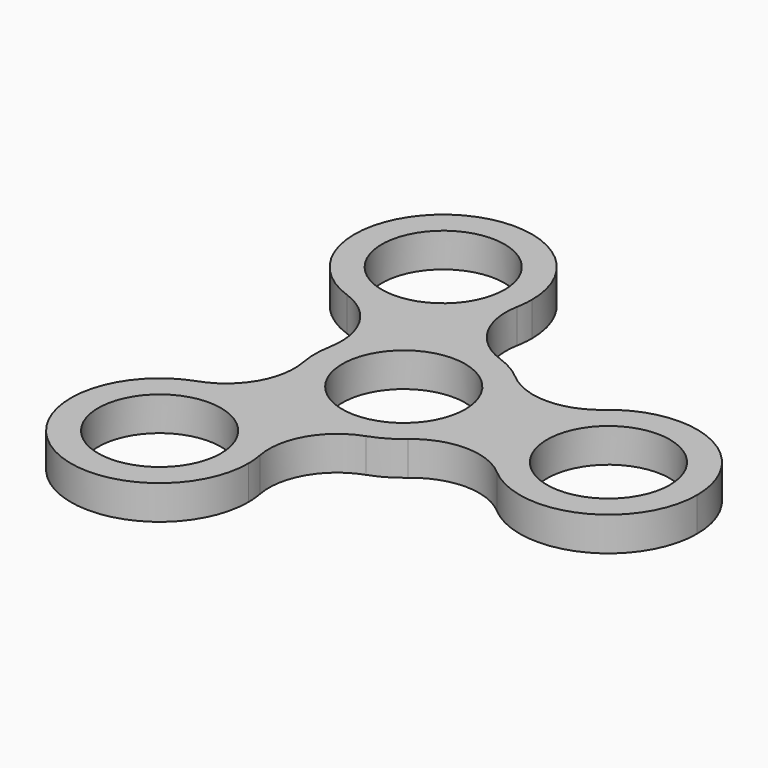
from build123d import *

# Parameters (mm, degrees)
F0_R     = 9
F1_DEPTH = 5


with BuildPart() as f1:
    # F0 (on Top) → F1 (new body)
    with BuildSketch(Plane.XY):
        with BuildLine():
            ThreePointArc((-19.295465, 13.710922), (-8.5, 14.722432), (-2.226274, 23.565824))
            ThreePointArc((-2.226274, 23.565824), (-2.056692, 24.768004), (-2, 25.980762))
            ThreePointArc((-2, 25.980762), (-22.521933, 36.583617), (-19.295465, 13.710922))
        make_face()
        with Locations((-15, 25.980762)):
            Circle(F0_R, mode=Mode.SUBTRACT)
        with BuildLine():
            ThreePointArc((8.478261, -9.854902), (11.815612, -5.421375), (13, 0))
            ThreePointArc((13, 0), (11.815612, 5.421375), (8.478261, 9.854902))
            ThreePointArc((8.478261, 9.854902), (6.5, 11.25833), (4.295465, 12.26984))
            ThreePointArc((4.295465, 12.26984), (-6.5, 11.25833), (-12.773726, 2.414938))
            ThreePointArc((-12.773726, 2.414938), (-13, 0), (-12.773726, -2.414938))
            ThreePointArc((-12.773726, -2.414938), (-6.5, -11.25833), (4.295465, -12.26984))
            ThreePointArc((4.295465, -12.26984), (6.5, -11.25833), (8.478261, -9.854902))
        make_face()
        Circle(F0_R, mode=Mode.SUBTRACT)
        with BuildLine():
            ThreePointArc((-12.773726, 2.414938), (-6.5, 11.25833), (4.295465, 12.26984))
            ThreePointArc((4.295465, 12.26984), (-1.060585, 16.708179), (-2.226274, 23.565824))
            ThreePointArc((-2.226274, 23.565824), (-8.5, 14.722432), (-19.295465, 13.710922))
            ThreePointArc((-19.295465, 13.710922), (-13.939415, 9.272583), (-12.773726, 2.414938))
        make_face()
        with BuildLine():
            ThreePointArc((8.478261, 9.854902), (11.815612, 5.421375), (13, 0))
            ThreePointArc((13, 0), (11.815612, -5.421375), (8.478261, -9.854902))
            ThreePointArc((8.478261, -9.854902), (15, -7.435596), (21.521739, -9.854902))
            ThreePointArc((21.521739, -9.854902), (17, 0), (21.521739, 9.854902))
            ThreePointArc((21.521739, 9.854902), (15, 7.435596), (8.478261, 9.854902))
        make_face()
        with BuildLine():
            ThreePointArc((43, 0), (35.421375, 11.815612), (21.521739, 9.854902))
            ThreePointArc((21.521739, 9.854902), (17, 0), (21.521739, -9.854902))
            ThreePointArc((21.521739, -9.854902), (35.421375, -11.815612), (43, 0))
        make_face()
        with Locations((30, 0)):
            Circle(F0_R, mode=Mode.SUBTRACT)
        with BuildLine():
            ThreePointArc((-2.226274, -23.565824), (-1.060585, -16.708179), (4.295465, -12.26984))
            ThreePointArc((4.295465, -12.26984), (-6.5, -11.25833), (-12.773726, -2.414938))
            ThreePointArc((-12.773726, -2.414938), (-13.939415, -9.272583), (-19.295465, -13.710922))
            ThreePointArc((-19.295465, -13.710922), (-8.5, -14.722432), (-2.226274, -23.565824))
        make_face()
        with BuildLine():
            ThreePointArc((-2, -25.980762), (-2.056692, -24.768004), (-2.226274, -23.565824))
            ThreePointArc((-2.226274, -23.565824), (-8.5, -14.722432), (-19.295465, -13.710922))
            ThreePointArc((-19.295465, -13.710922), (-22.521933, -36.583617), (-2, -25.980762))
        make_face()
        with Locations((-15, -25.980762)):
            Circle(F0_R, mode=Mode.SUBTRACT)
    extrude(amount=F1_DEPTH)


solid = f1.part
